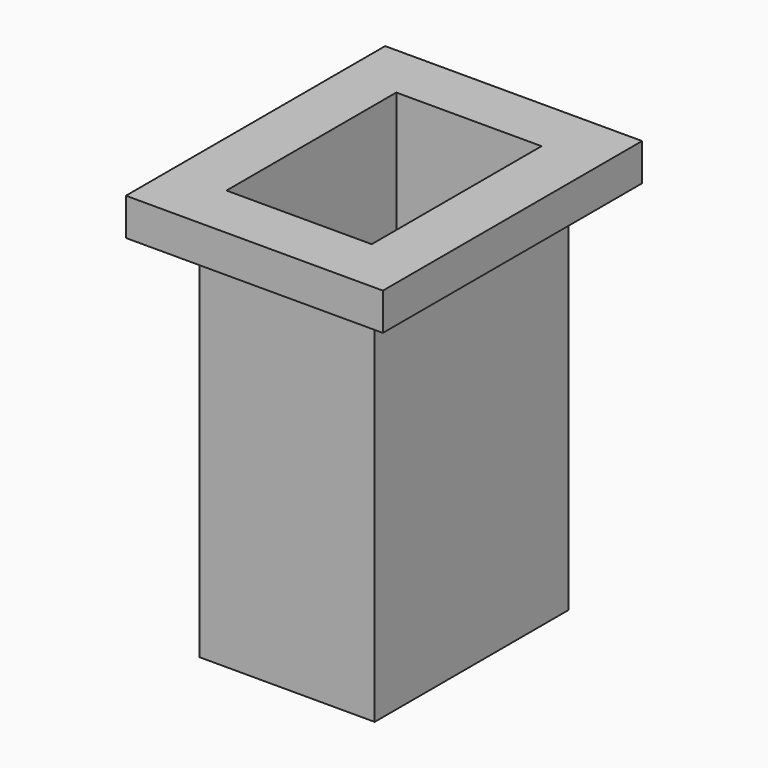
from build123d import *

# Parameters (mm, degrees)
F0_W     = 0.8
F0_H     = 0.8
F0_H_2   = 11.4
F0_W_2   = 7.8
F1_DEPTH = 20
F2_W     = 13.8
F2_H     = 17.4
F2_W_2   = 9.4
F2_H_2   = 13
F2_W_3   = 7.8
F2_H_3   = 11.4
F3_DEPTH = 2


with BuildPart() as f1:
    # F0 (on Top) → F1 (new body)
    with BuildSketch(Plane.XY):
        with Locations((0.4, -0.4)):
            Rectangle(F0_W, F0_H)
        with Locations((0.4, -6.5)):
            Rectangle(F0_W, F0_H_2)
        with Locations((0.4, -12.6)):
            Rectangle(F0_W, F0_H)
        with Locations((4.7, -12.6)):
            Rectangle(F0_W_2, F0_H)
        with Locations((4.7, -0.4)):
            Rectangle(F0_W_2, F0_H)
        with Locations((9, -0.4)):
            Rectangle(F0_W, F0_H)
        with Locations((9, -6.5)):
            Rectangle(F0_W, F0_H_2)
        with Locations((9, -12.6)):
            Rectangle(F0_W, F0_H)
    extrude(amount=F1_DEPTH)

    # F2 (on face) → F3 (join)
    with BuildSketch(Plane.XY.offset(20)):
        with Locations((4.7, -6.5)):
            Rectangle(F2_W, F2_H)
        with Locations((4.7, -6.5)):
            Rectangle(F2_W_2, F2_H_2, mode=Mode.SUBTRACT)
        with Locations((4.7, -6.5)):
            Rectangle(F2_W_2, F2_H_2)
        with Locations((4.7, -6.5)):
            Rectangle(F2_W_3, F2_H_3, mode=Mode.SUBTRACT)
    extrude(amount=F3_DEPTH)


solid = f1.part
